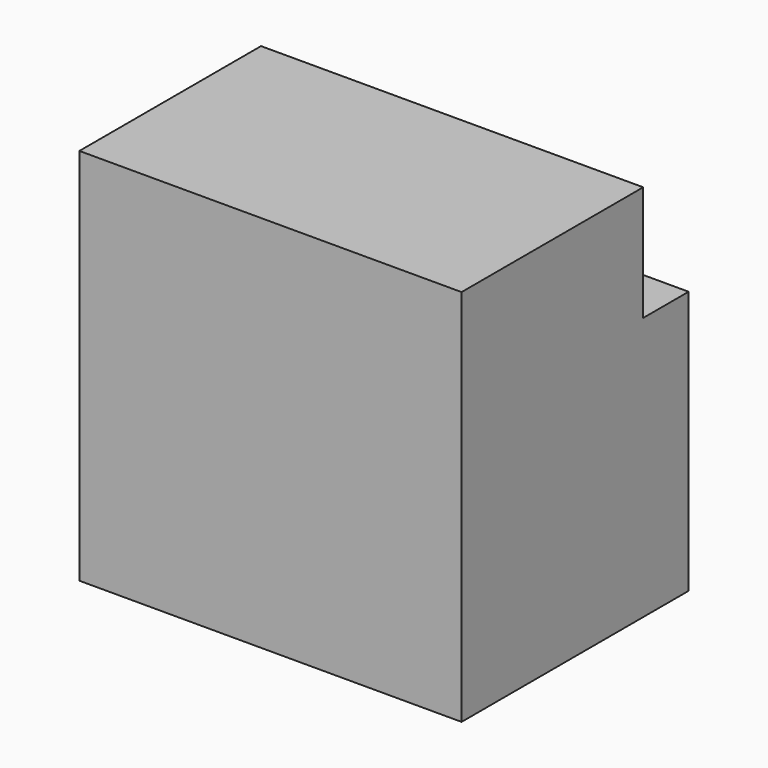
from build123d import *

# Parameters (mm, degrees)
F0_W     = 2020
F0_H     = 1500
F1_DEPTH = 2000
F2_W     = 300
F2_H     = 608
F3_DEPTH = 2020.001


with BuildPart() as f1:
    # F0 (on Top) → F1 (new body)
    with BuildSketch(Plane.XY):
        Rectangle(F0_W, F0_H)
    extrude(amount=F1_DEPTH)

    # F2 (on face) → F3 (cut, through all)
    with BuildSketch(Plane(origin=(-1010, 0, 0), x_dir=(0, -1, 0), z_dir=(-1, 0, 0))):
        with Locations((-600, 1696)):
            Rectangle(F2_W, F2_H)
    extrude(amount=-F3_DEPTH, mode=Mode.SUBTRACT)


solid = f1.part
